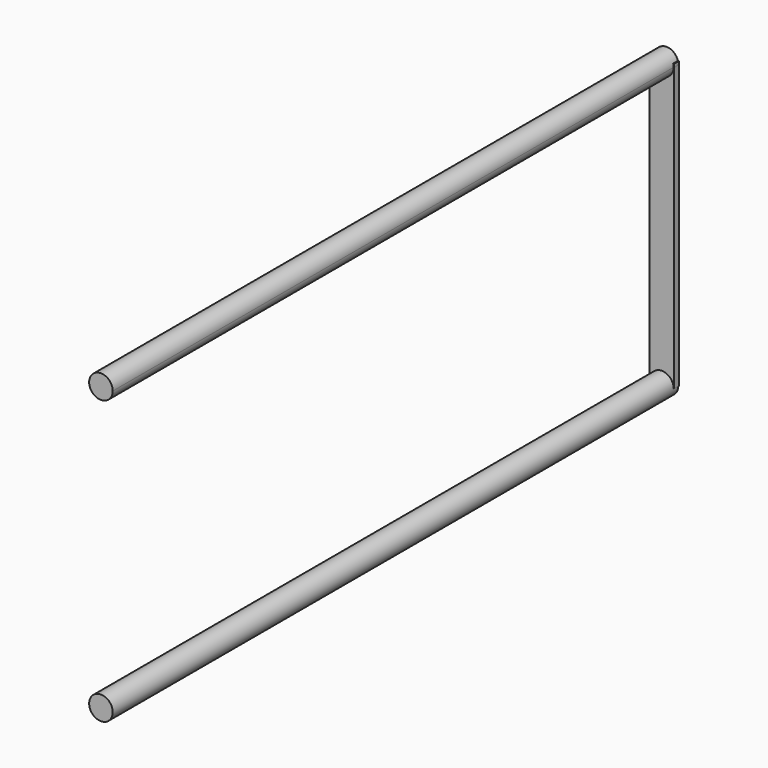
from build123d import *

# Parameters (mm, degrees)
F0_R     = 12.7
F1_DEPTH = 762
F3_DEPTH = 762
F4_W     = 25.81597
F4_H     = 304.8
F5_DEPTH = 6.35
F7_DEPTH = 6.35
F9_DEPTH = 6.35


with BuildPart() as f1:
    # F0 (on Front) → F1 (new body)
    with BuildSketch(Plane.XZ):
        Circle(F0_R)
    extrude(amount=F1_DEPTH)


with BuildPart() as f3:
    # F2 (on Front) → F3 (new body)
    with BuildSketch(Plane.XZ):
        with BuildLine():
            ThreePointArc((0, 292.1), (8.980256, 295.819744), (12.7, 304.8))
            ThreePointArc((12.7, 304.8), (-8.980256, 313.780256), (0, 292.1))
        make_face()
    extrude(amount=F3_DEPTH)


with BuildPart() as f5:
    # F4 (on Front) → F5 (new body)
    with BuildSketch(Plane.XZ):
        with Locations((0.368799, 152.4)):
            Rectangle(F4_W, F4_H)
    extrude(amount=F5_DEPTH)


with BuildPart() as f7:
    # F6 (on Front) → F7 (new body)
    with BuildSketch(Plane.XZ):
        Polygon((13.263695, 308.183849), (-13.263693, 306.710094), (-13.263693, 0), (13.263695, 0), align=None)
    extrude(amount=F7_DEPTH)


with BuildPart() as f9:
    # F8 (on face) → F9 (new body)
    with BuildSketch(Plane.XZ.offset(6.35)):
        Polygon((-247.386217, -295.513868), (-247.386217, 0), (-272.435516, 0), (-272.435516, -300.665438), align=None)
    extrude(amount=F9_DEPTH)


solid = Compound([f1.part, f3.part, f5.part, f7.part])
